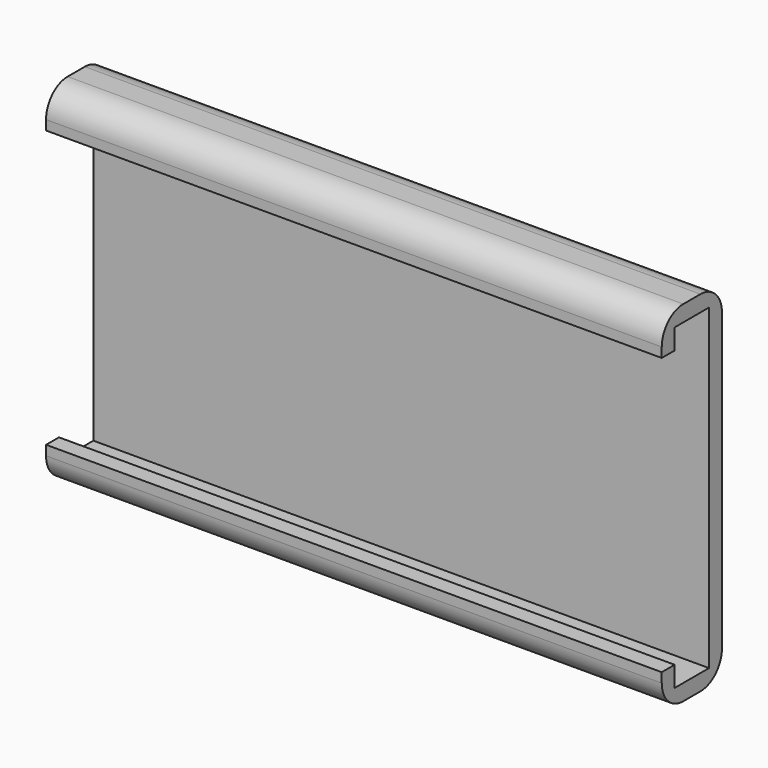
from build123d import *

# Parameters (mm, degrees)
F1_DEPTH = 145.542


with BuildPart() as f1:
    # F0 (on Right) → F1 (new body)
    with BuildSketch(Plane.YZ):
        with BuildLine():
            Line((-8.008403, 37.52215), (-8.008403, 0))
            Line((-8.008403, 0), (-8.008403, -37.52215))
            Line((-8.008403, -37.52215), (-18.168403, -37.52215))
            Line((-18.168403, -37.52215), (-18.168403, -32.69615))
            Line((-18.168403, -32.69615), (-21.978403, -32.69615))
            Line((-21.978403, -32.69615), (-21.978403, -34.98215))
            ThreePointArc((-21.978403, -34.98215), (-20.118531, -39.472278), (-15.628403, -41.33215))
            Line((-15.628403, -41.33215), (-10.548403, -41.33215))
            ThreePointArc((-10.548403, -41.33215), (-6.058275, -39.472278), (-4.198403, -34.98215))
            Line((-4.198403, -34.98215), (-4.198403, 0))
            Line((-4.198403, 0), (-4.198403, 34.98215))
            ThreePointArc((-4.198403, 34.98215), (-6.058275, 39.472278), (-10.548403, 41.33215))
            Line((-10.548403, 41.33215), (-15.628403, 41.33215))
            ThreePointArc((-15.628403, 41.33215), (-20.118531, 39.472278), (-21.978403, 34.98215))
            Line((-21.978403, 34.98215), (-21.978403, 32.69615))
            Line((-21.978403, 32.69615), (-18.168403, 32.69615))
            Line((-18.168403, 32.69615), (-18.168403, 37.52215))
            Line((-18.168403, 37.52215), (-8.008403, 37.52215))
        make_face()
    extrude(amount=F1_DEPTH)


solid = f1.part
